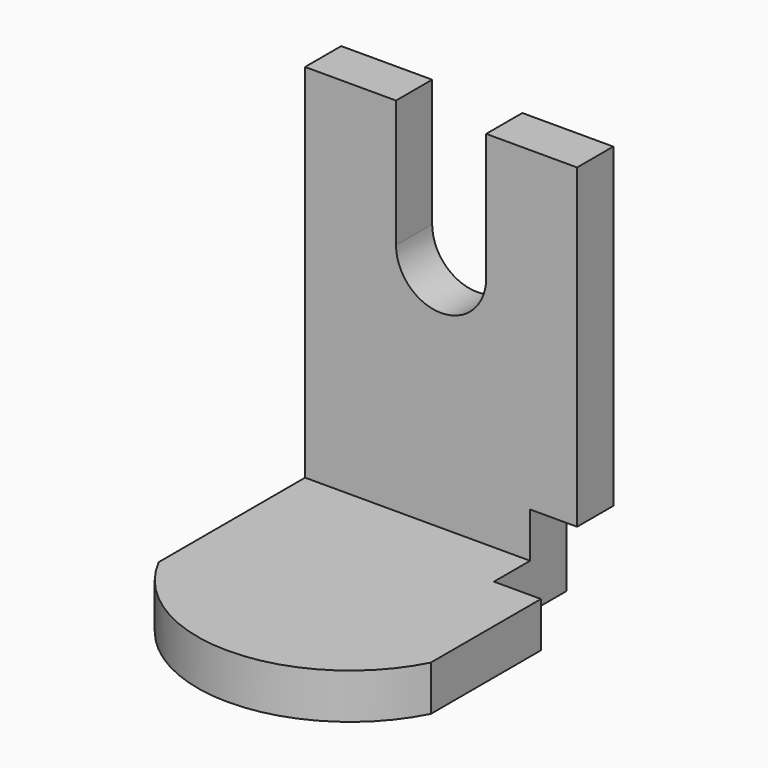
from build123d import *

# Parameters (mm, degrees)
F1_DEPTH = 25
F2_W     = 150.479242
F2_H     = 25
F3_DEPTH = 200
F5_DEPTH = 25.001
F7_DEPTH = 26


with BuildPart() as f1:
    # F0 (on Top) → F1 (new body)
    with BuildSketch(Plane.XY):
        with BuildLine():
            Line((-75.239621, 126.136482), (-75.239621, 0))
            ThreePointArc((-75.239621, 0), (0, -46.155653), (75.239621, 0))
            Line((75.239621, 0), (75.239621, 126.136482))
            Line((75.239621, 126.136482), (-75.239621, 126.136482))
        make_face()
    extrude(amount=-F1_DEPTH)

    # F2 (on face) → F3 (join)
    with BuildSketch(Plane.XY):
        with Locations((0, 113.636482)):
            Rectangle(F2_W, F2_H)
    extrude(amount=F3_DEPTH)

    # F4 (on face) → F5 (cut, through all)
    with BuildSketch(Plane.XZ.offset(-101.136482)):
        with BuildLine():
            Line((-24.937427, 200), (-24.937427, 129.60729))
            ThreePointArc((-24.937427, 129.60729), (0, 104.669863), (24.937427, 129.60729))
            Line((24.937427, 129.60729), (24.937427, 200))
            Line((24.937427, 200), (-24.937427, 200))
        make_face()
    extrude(amount=-F5_DEPTH, mode=Mode.SUBTRACT)

    # F6 (on face) → F7 (cut)
    with BuildSketch(Plane.YZ.offset(75.239621)):
        Polygon((76.136482, -25), (126.136482, -25), (126.136482, 25), (101.136482, 25), (101.136482, 0), (76.136482, 0), align=None)
    extrude(amount=-F7_DEPTH, mode=Mode.SUBTRACT)


solid = f1.part
